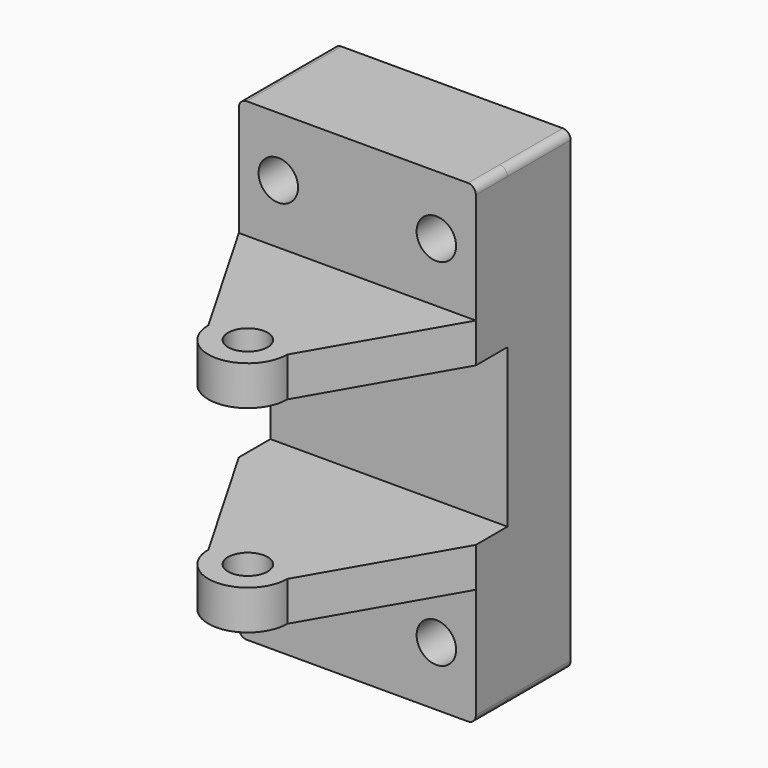
from build123d import *

# Parameters (mm, degrees)
F0_W     = 76.2
F0_H     = 152.4
F0_R     = 6.35
F1_DEPTH = 25.4
F2_R     = 2.54
F3_R     = 6.35
F4_DEPTH = 12.7
F5_W     = 76.2
F5_H     = 12.7
F6_DEPTH = 12.7


with BuildPart() as f1:
    # F0 (on Front) → F1 (new body)
    with BuildSketch(Plane.XZ):
        Rectangle(F0_W, F0_H)
        with Locations((-25.4, -57.15)):
            Circle(F0_R, mode=Mode.SUBTRACT)
        with Locations((25.4, -57.15)):
            Circle(F0_R, mode=Mode.SUBTRACT)
        with Locations((-25.4, 57.15)):
            Circle(F0_R, mode=Mode.SUBTRACT)
        with Locations((25.4, 57.15)):
            Circle(F0_R, mode=Mode.SUBTRACT)
    extrude(amount=F1_DEPTH)

    # F2
    f2_edges = [f1.edges().sort_by_distance(p)[0] for p in [
        (-38.1, -12.7, 76.2),
        (-38.1, -12.7, -76.2),
        (38.1, -12.7, -76.2),
        (38.1, -12.7, 76.2),
    ]]
    fillet(f2_edges, radius=F2_R)

    # F3 (on face) → F4 (join)
    with BuildSketch(Plane.XZ.offset(25.4)):
        with BuildLine():
            ThreePointArc((38.1, 73.66), (37.3560512242, 75.4560512242), (35.56, 76.2))
            Line((35.56, 76.2), (-35.56, 76.2))
            ThreePointArc((-35.56, 76.2), (-37.3560512242, 75.4560512242), (-38.1, 73.66))
            Line((-38.1, 73.66), (-38.1, 38.1))
            Line((-38.1, 38.1), (38.1, 38.1))
            Line((38.1, 38.1), (38.1, 73.66))
        make_face()
        with Locations((-25.4, 57.15)):
            Circle(F3_R, mode=Mode.SUBTRACT)
        with Locations((25.4, 57.15)):
            Circle(F3_R, mode=Mode.SUBTRACT)
    extrude(amount=F4_DEPTH)

    # F5 (on face) → F6 (join)
    with BuildSketch(Plane(origin=(0, 0, 38.1), x_dir=(1, 0, 0), z_dir=(0, 0, -1))):
        with BuildLine():
            Line((-12.7, 82.0940905122), (-38.1, 38.1))
            Line((-38.1, 38.1), (38.1, 38.1))
            Line((38.1, 38.1), (12.7, 82.0940905122))
            ThreePointArc((12.7, 82.0940905122), (0, 69.3940905122), (-12.7, 82.0940905122))
        make_face()
        with BuildLine():
            Line((-6.35, 82.0940905122), (-12.7, 82.0940905122))
            ThreePointArc((-12.7, 82.0940905122), (0, 69.3940905122), (12.7, 82.0940905122))
            Line((12.7, 82.0940905122), (6.35, 82.0940905122))
            ThreePointArc((6.35, 82.0940905122), (0, 75.7440905122), (-6.35, 82.0940905122))
        make_face()
        with BuildLine():
            ThreePointArc((12.7, 82.0940905122), (0, 94.7940905122), (-12.7, 82.0940905122))
            Line((-12.7, 82.0940905122), (-6.35, 82.0940905122))
            ThreePointArc((-6.35, 82.0940905122), (0, 88.4440905122), (6.35, 82.0940905122))
            Line((6.35, 82.0940905122), (12.7, 82.0940905122))
        make_face()
        with Locations((0, 31.75)):
            Rectangle(F5_W, F5_H)
    extrude(amount=F6_DEPTH)

    # F7: F1 across plane


with BuildPart() as f1_1:
    add(f1.part)
    add(f1.part.mirror(Plane.XY))


solid = f1_1.part
